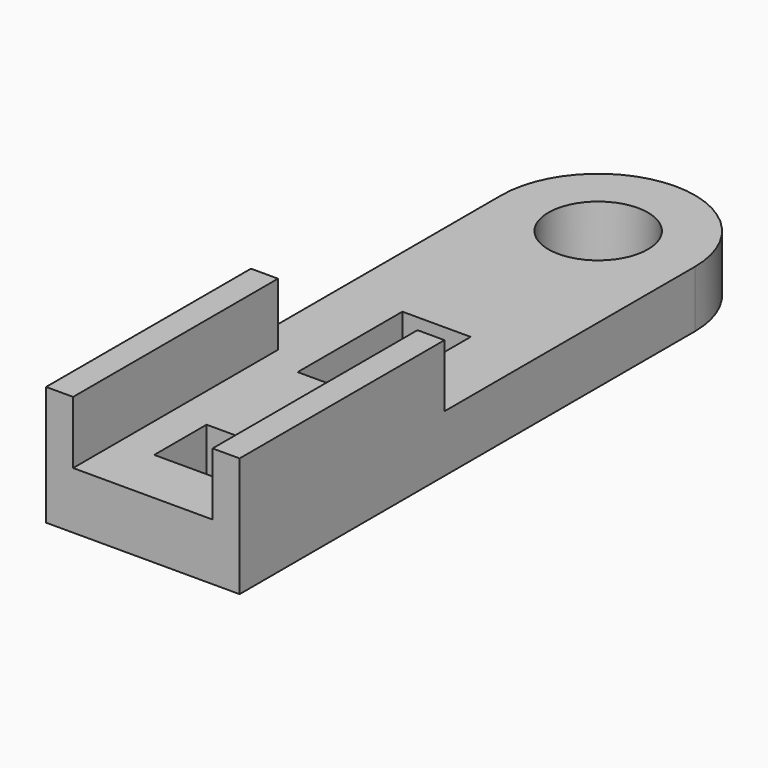
from build123d import *

# Parameters (mm, degrees)
F0_W     = 2.4
F0_H     = 2.3
F0_H_2   = 4.6
F0_R     = 1.75
F1_DEPTH = 2
F2_W     = 0.95
F2_H     = 9
F3_DEPTH = 2.2


with BuildPart() as f1:
    # F0 (on Top) → F1 (new body)
    with BuildSketch(Plane.XY):
        with BuildLine():
            Line((3.4, -10), (3.4, 10))
            ThreePointArc((3.4, 10), (0, 13.4), (-3.4, 10))
            Line((-3.4, 10), (-3.4, -10))
            Line((-3.4, -10), (3.4, -10))
        make_face()
        with Locations((0, -6.85)):
            Rectangle(F0_W, F0_H, mode=Mode.SUBTRACT)
        with Locations((0, 0.6)):
            Rectangle(F0_W, F0_H_2, mode=Mode.SUBTRACT)
        with Locations((0, 10)):
            Circle(F0_R, mode=Mode.SUBTRACT)
    extrude(amount=F1_DEPTH)

    # F2 (on face) → F3 (join)
    with BuildSketch(Plane.XY.offset(2)):
        with Locations((2.925, -5.5)):
            Rectangle(F2_W, F2_H)
        with Locations((-2.925, -5.5)):
            Rectangle(F2_W, F2_H)
    extrude(amount=F3_DEPTH)


solid = f1.part
